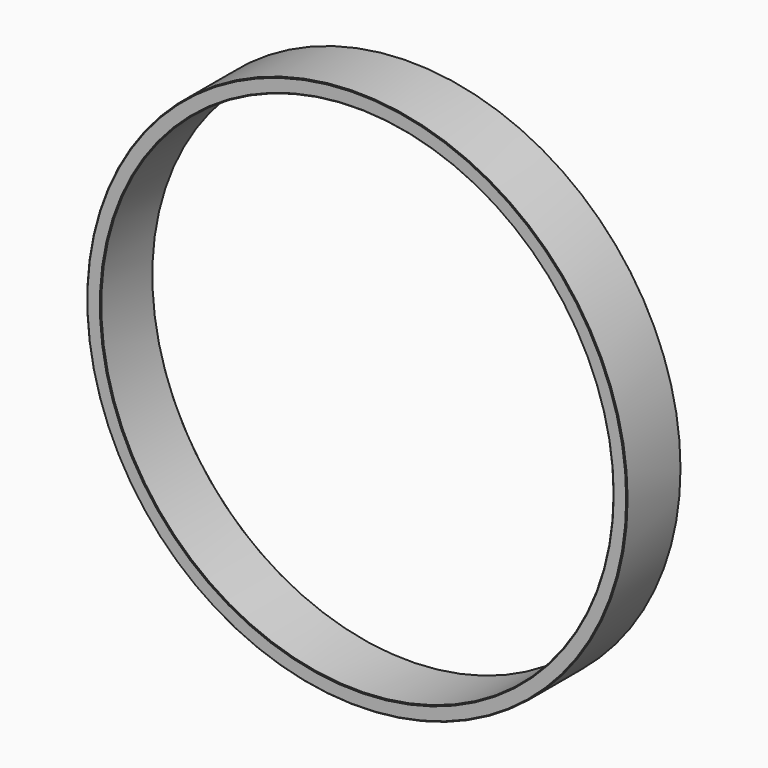
from build123d import *

# Parameters (mm, degrees)
F0_R     = 177.4952
F0_R_2   = 168.275
F1_DEPTH = 44.45
F2_SIZE  = 2.032
F3_SIZE  = 0.508


with BuildPart() as f1:
    # F0 (on Front) → F1 (new body)
    with BuildSketch(Plane.XZ):
        Circle(F0_R)
        Circle(F0_R_2, mode=Mode.SUBTRACT)
    extrude(amount=F1_DEPTH)

    # F2
    f2_edges = [f1.edges().sort_by_distance(p)[0] for p in [
        (-168.275, 0, 0),
    ]]
    chamfer(f2_edges, length=F2_SIZE)

    # F3
    f3_edges = [f1.edges().sort_by_distance(p)[0] for p in [
        (-168.275, -44.45, 0),
        (-177.4952, -44.45, 0),
        (-177.4952, 0, 0),
    ]]
    chamfer(f3_edges, length=F3_SIZE)


solid = f1.part
